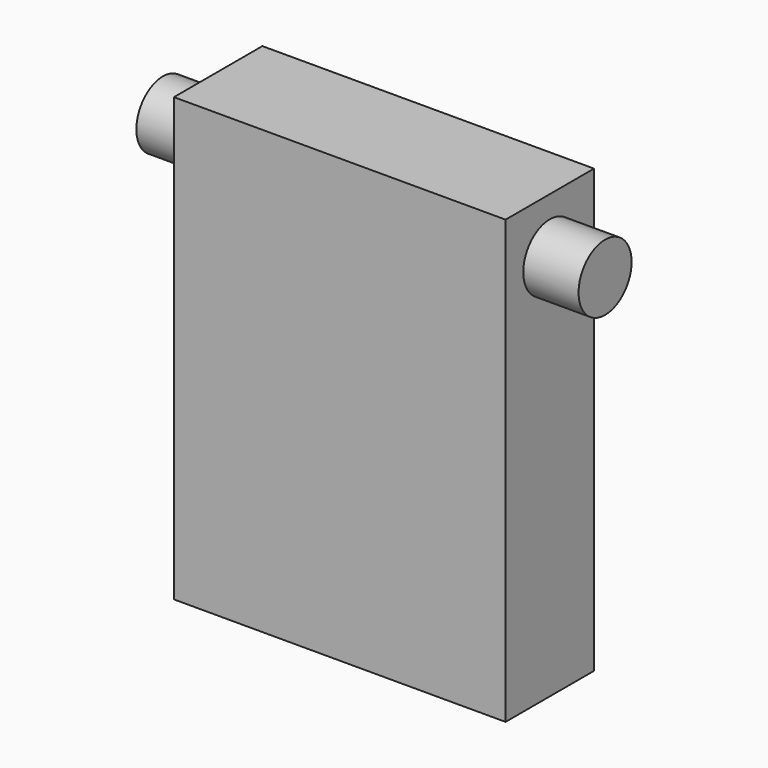
from build123d import *

# Parameters (mm, degrees)
F0_W     = 75
F0_H     = 100
F1_DEPTH = 12.5
F2_R     = 7.5
F3_DEPTH = 50


with BuildPart() as f1:
    # F0 (on Front) → F1 (new body, symmetric)
    with BuildSketch(Plane.XZ):
        Rectangle(F0_W, F0_H)
    extrude(amount=F1_DEPTH, both=True)

    # F2 (on Right) → F3 (join, symmetric)
    with BuildSketch(Plane.YZ):
        with Locations((0, 37.5)):
            Circle(F2_R)
    extrude(amount=F3_DEPTH, both=True)


solid = f1.part
